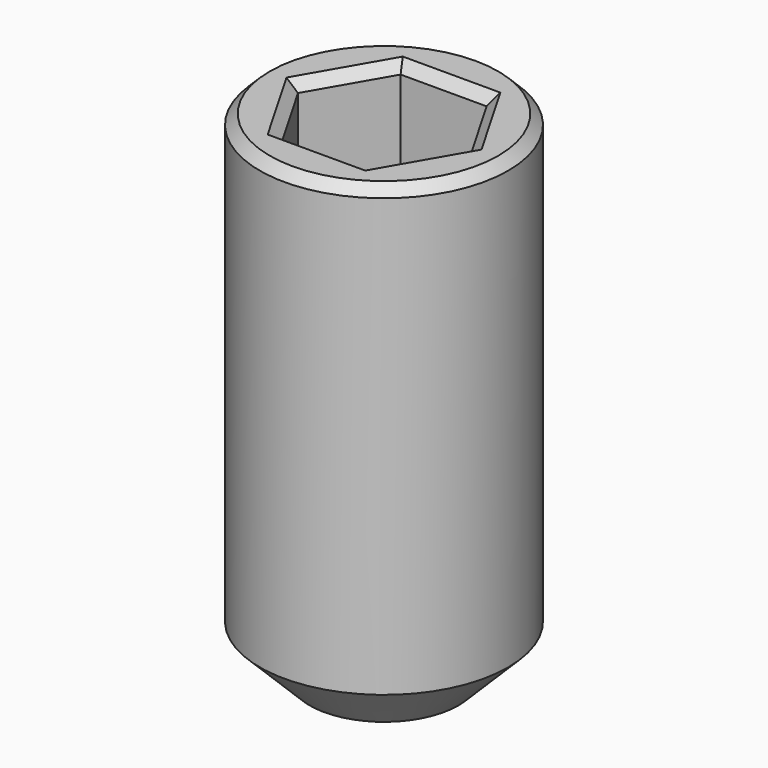
from build123d import *

# Parameters (mm, degrees)
F0_R     = 1.25
F1_DEPTH = 5
F2_DEPTH = 1.5
F3_SIZE  = 0.1
F4_SIZE  = 0.5


with BuildPart() as f1:
    # F0 (on Top) → F1 (new body)
    with BuildSketch(Plane.XY):
        Circle(F0_R)
        Polygon((-0.866025, 0), (-0.433013, 0.75), (0.433013, 0.75), (0.866025, 0), (0.433013, -0.75), (-0.433013, -0.75), align=None, mode=Mode.SUBTRACT)
        Polygon((0.433013, 0.75), (-0.433013, 0.75), (-0.866025, 0), (-0.433013, -0.75), (0.433013, -0.75), (0.866025, 0), align=None)
    extrude(amount=-F1_DEPTH)

    # F0 (on Top) → F2 (cut)
    with BuildSketch(Plane.XY):
        Polygon((0.433013, 0.75), (-0.433013, 0.75), (-0.866025, 0), (-0.433013, -0.75), (0.433013, -0.75), (0.866025, 0), align=None)
    extrude(amount=-F2_DEPTH, mode=Mode.SUBTRACT)

    # F3
    f3_edges = [f1.edges().sort_by_distance(p)[0] for p in [
        (-1.25, 0, 0),
        (0, 0.75, 0),
        (-0.649519, 0.375, 0),
        (-0.649519, -0.375, 0),
        (0, -0.75, 0),
        (0.649519, -0.375, 0),
        (0.649519, 0.375, 0),
    ]]
    chamfer(f3_edges, length=F3_SIZE)

    # F4
    f4_edges = [f1.edges().sort_by_distance(p)[0] for p in [
        (-1.25, 0, -5),
    ]]
    chamfer(f4_edges, length=F4_SIZE)


solid = f1.part
